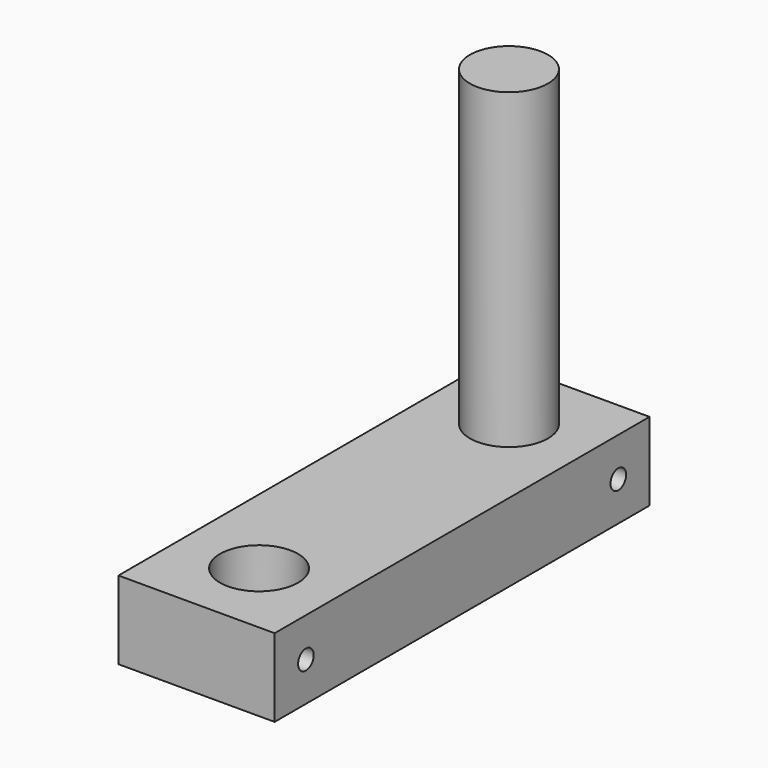
from build123d import *

# Parameters (mm, degrees)
F0_R     = 12.7
F1_DEPTH = 127
F0_W     = 50.8
F0_H     = 152.4
F2_DEPTH = 25.4
F3_R     = 3.175
F4_DEPTH = 50.801


with BuildPart() as f1:
    # F0 (on Top) → F1 (new body)
    with BuildSketch(Plane.XY):
        with Locations((-25.4, 75.295159)):
            Circle(F0_R)
    extrude(amount=F1_DEPTH)


with BuildPart() as f2:
    # F0 (on Top) → F2 (new body)
    with BuildSketch(Plane.XY):
        with Locations((-25.4, 24.495159)):
            Rectangle(F0_W, F0_H)
        with Locations((-25.4, -26.304841)):
            Circle(F0_R, mode=Mode.SUBTRACT)
        with Locations((-25.4, 75.295159)):
            Circle(F0_R, mode=Mode.SUBTRACT)
    extrude(amount=F2_DEPTH)


with BuildPart() as f4_tool:
    # F3 (on face) → F4 (new body, through all)
    with BuildSketch(Plane(origin=(-50.8, 0, 0), x_dir=(0, -1, 0), z_dir=(-1, 0, 0))):
        with Locations((-87.995159, 12.7)):
            Circle(F3_R)
        with Locations((39.004841, 12.7)):
            Circle(F3_R)
    extrude(amount=-F4_DEPTH)


with BuildPart() as f1_1:
    add(f1.part)

    # F4: cut by f4_tool
    add(f4_tool.part, mode=Mode.SUBTRACT)


with BuildPart() as f2_1:
    add(f2.part)

    # F4: cut by f4_tool
    add(f4_tool.part, mode=Mode.SUBTRACT)


solid = Compound([f1_1.part, f2_1.part])
